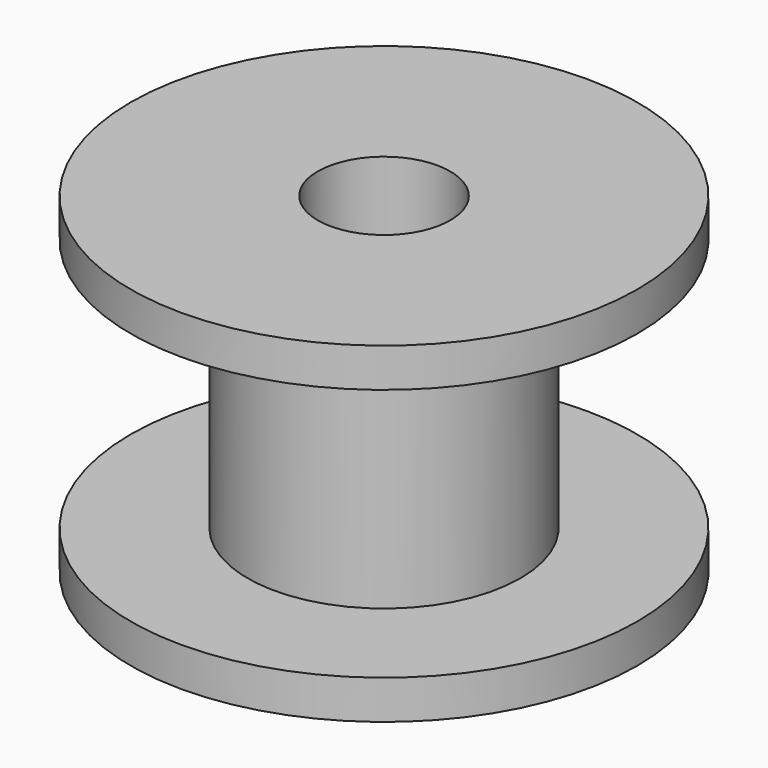
from build123d import *

# Parameters (mm, degrees)
F0_R     = 6.5
F0_R_2   = 3.5
F1_DEPTH = 1
F2_DEPTH = 4.25
F4_D     = 3.4


with BuildPart() as f1:
    # F0 (on Top) → F1 (new body)
    with BuildSketch(Plane.XY):
        Circle(F0_R)
        Circle(F0_R_2, mode=Mode.SUBTRACT)
        Circle(F0_R_2)
    extrude(amount=F1_DEPTH)

    # F0 (on Top) → F2 (join)
    with BuildSketch(Plane.XY):
        Circle(F0_R_2)
    extrude(amount=F2_DEPTH)

    # F3: F1 across face


with BuildPart() as f1_1:
    add(f1.part)
    add(f1.part.mirror(Plane.XY.offset(4.25)))

    # F4 (through all)
    with Locations(Plane(origin=(0, 0, 0), x_dir=(1, 0, 0), z_dir=(0, 0, -1))):
        with Locations((0, 0)):
            Hole(F4_D / 2)


solid = f1_1.part
